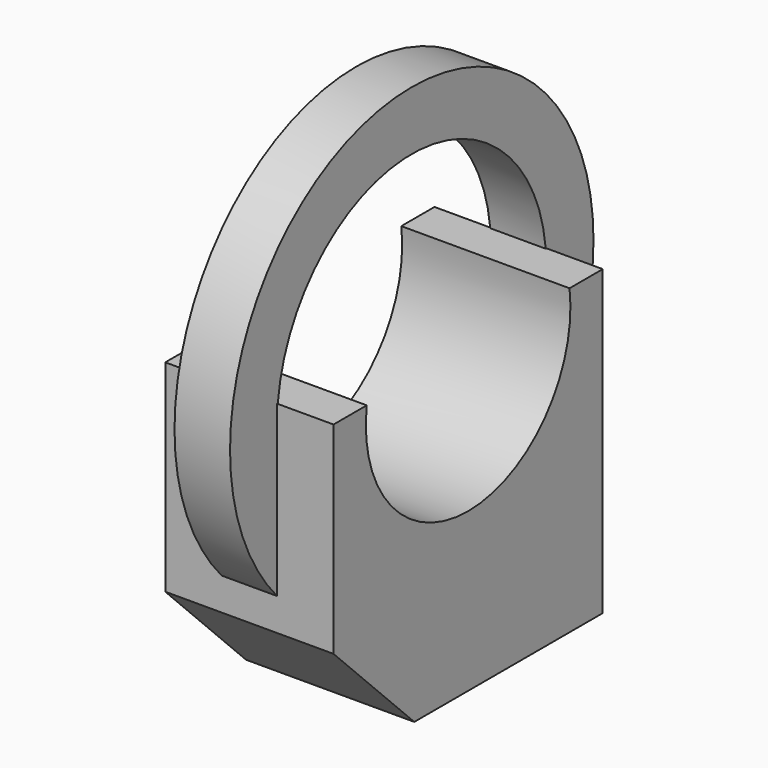
from build123d import *

# Parameters (mm, degrees)
F0_W     = 10
F0_H     = 20
F1_DEPTH = 18
F2_R     = 7.6
F3_DEPTH = 10.001
F5_R     = 13.5
F5_R_2   = 10
F6_DEPTH = 1.65
F7_SIZE  = 6


with BuildPart() as f1:
    # F0 (on Top) → F1 (new body)
    with BuildSketch(Plane.XY):
        with Locations((5, 10)):
            Rectangle(F0_W, F0_H)
    extrude(amount=F1_DEPTH)

    # F2 (on face) → F3 (cut, through all)
    with BuildSketch(Plane.YZ.offset(10)):
        with Locations((10, 17)):
            Circle(F2_R)
    extrude(amount=-F3_DEPTH, mode=Mode.SUBTRACT)

    # F7
    f7_edges = [f1.edges().sort_by_distance(p)[0] for p in [
        (5, 0, 0),
    ]]
    chamfer(f7_edges, length=F7_SIZE)


with BuildPart() as f6:
    # F5 (on mid) → F6 (new body, symmetric)
    with BuildSketch(Plane.YZ.offset(5)):
        with Locations((10, 17)):
            Circle(F5_R)
        with Locations((10, 17)):
            Circle(F5_R_2, mode=Mode.SUBTRACT)
    extrude(amount=F6_DEPTH, both=True)


solid = Compound([f1.part, f6.part])
